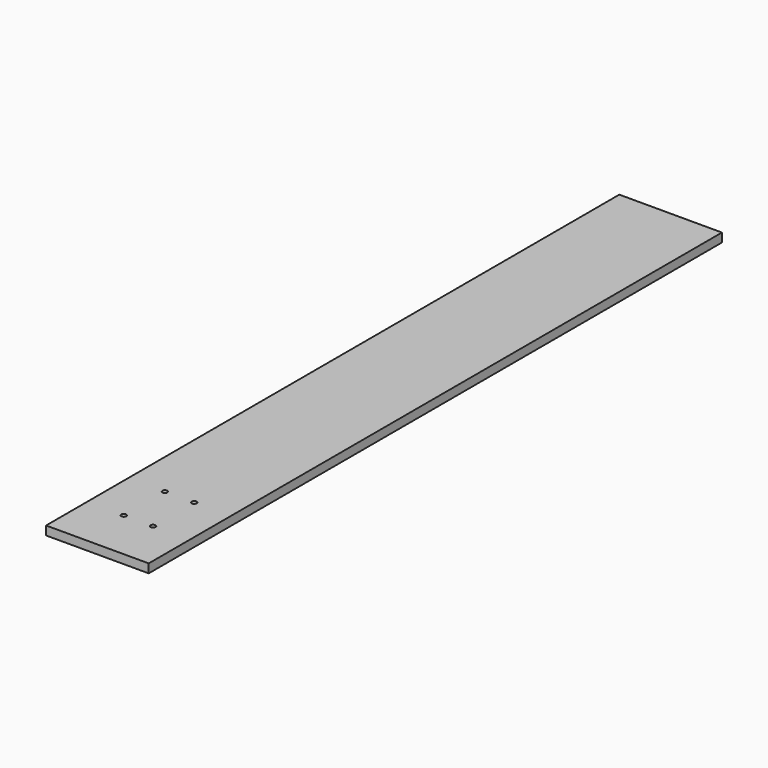
from build123d import *

# Parameters (mm, degrees)
F0_W     = 140
F0_H     = 977.5
F1_DEPTH = 12
F3_D     = 6.8


with BuildPart() as f1:
    # F0 (on Top) → F1 (new body)
    with BuildSketch(Plane.XY):
        with Locations((70, 488.75)):
            Rectangle(F0_W, F0_H)
    extrude(amount=F1_DEPTH)

    # F3 (through all)
    with Locations(Plane.XY.offset(12)):
        with Locations((50, 140), (90, 140), (90, 70), (50, 70)):
            Hole(F3_D / 2)


solid = f1.part
